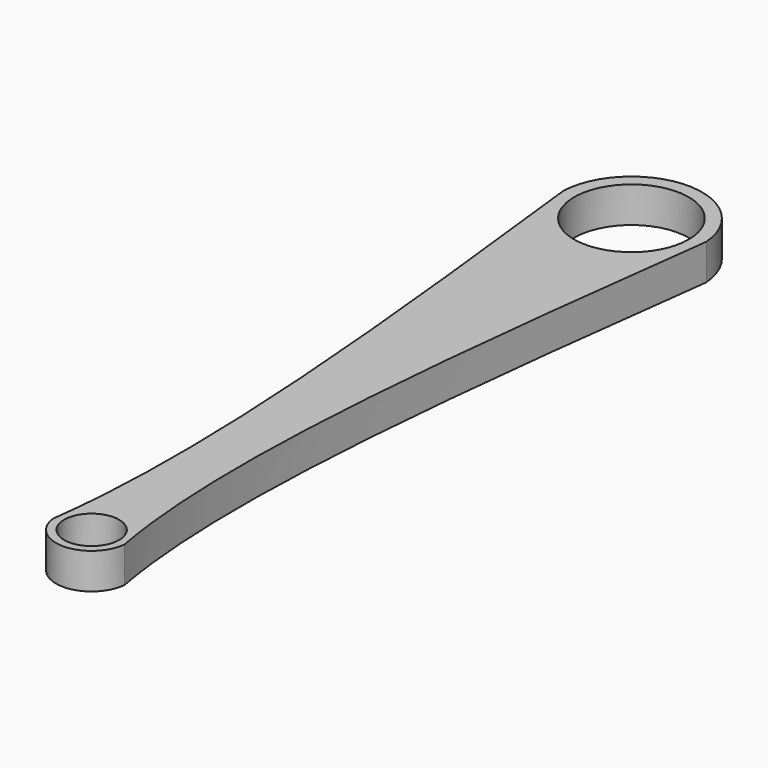
from build123d import *

# Parameters (mm, degrees)
F0_R     = 4.8813139191
F0_R_2   = 10.1764917569
F1_DEPTH = 6.35


with BuildPart() as f1:
    # F0 (on Top) → F1 (new body)
    with BuildSketch(Plane.XY):
        with BuildLine():
            add(Edge.make_bspline(
                [(-12.5280236165, 61.3621314645), (-7.3308367109, 16.0433941021), (-2.1616382879, -29.2743790858), (-6.2805634765, -59.8213464213)],
                knots=[0, 0, 0, 0, 0.612325914, 0.612325914, 0.612325914, 0.612325914], degree=3))
            ThreePointArc((-6.2805634765, -59.8213464213), (0.0609906573, -65.418488491), (6.2933783491, -59.7000401142))
            add(Edge.make_bspline(
                [(12.5064774979, 61.6896377928), (6.6850781441, 15.9770144044), (0.8078775975, -29.741100788), (6.2933783491, -59.7000401142)],
                knots=[0, 0, 0, 0, 0.6137866635, 0.6137866635, 0.6137866635, 0.6137866635], degree=3))
            ThreePointArc((12.5064774979, 61.6896377928), (-0.1641071527, 73.2467040487), (-12.5280236165, 61.3621314645))
        make_face()
        with Locations((0, -59.0965338051)):
            Circle(F0_R, mode=Mode.SUBTRACT)
        with Locations((0, 60.7023946941)):
            Circle(F0_R_2, mode=Mode.SUBTRACT)
    extrude(amount=F1_DEPTH)


solid = f1.part
